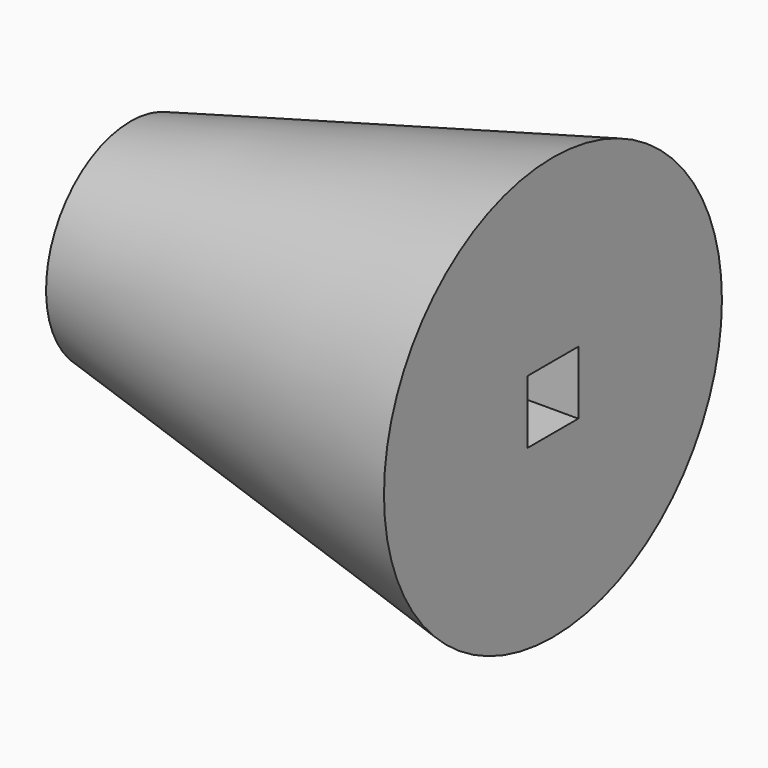
from build123d import *

# Parameters (mm, degrees)
F2_W     = 762
F2_H     = 762
F3_DEPTH = 5867.4


with BuildPart() as f1:
    # F0 (on Front) → F1 (revolve)
    with BuildSketch(Plane.XZ):
        Polygon((0, 1270), (0, 0), (5080, 0), (5080, 2540), align=None)
    revolve(axis=Axis((2582.32908, 0, 0), (1, 0, 0)))

    # F2 (on face) → F3 (cut)
    with BuildSketch(Plane(origin=(0, 0, 0), x_dir=(0, -1, 0), z_dir=(-1, 0, 0))):
        Rectangle(F2_W, F2_H)
    extrude(amount=-F3_DEPTH, mode=Mode.SUBTRACT)


solid = f1.part
